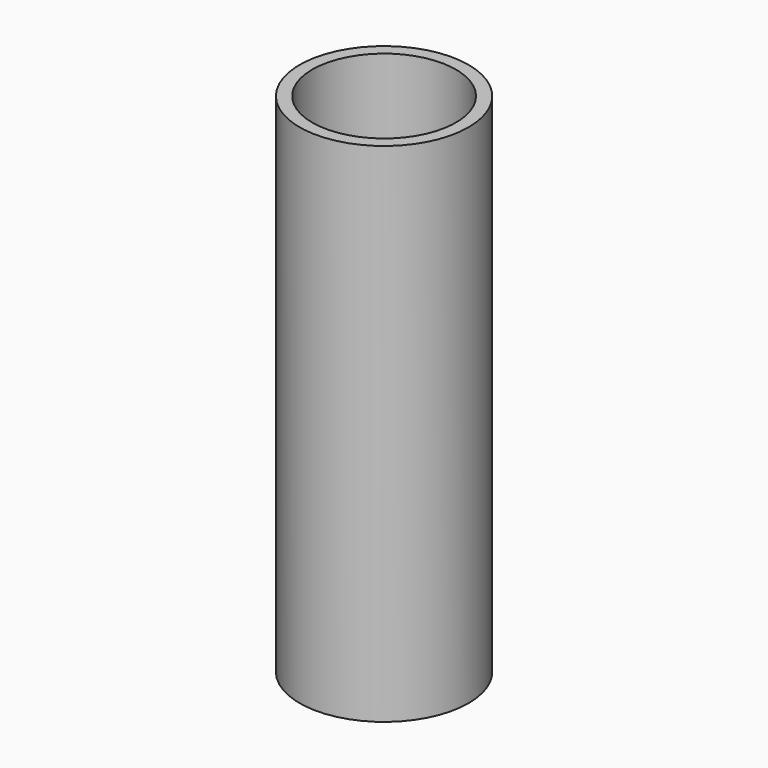
from build123d import *

# Parameters (mm, degrees)
F0_R      = 12.7
F1_DEPTH  = 50.8
F1_FACE_R = 12.7
F2_DEPTH  = 25.4
F4_D      = 21.59


with BuildPart() as f1:
    # F0 (on Top) → F1 (new body)
    with BuildSketch(Plane.XY):
        Circle(F0_R)
    extrude(amount=F1_DEPTH)

    # F1_face (on face) → F2 (join)
    with BuildSketch(Plane.XY.offset(50.8)):
        Circle(F1_FACE_R)
    extrude(amount=F2_DEPTH)

    # F4 (through all)
    with Locations(Plane.XY.offset(76.2)):
        with Locations((0, 0)):
            Hole(F4_D / 2)


solid = f1.part
